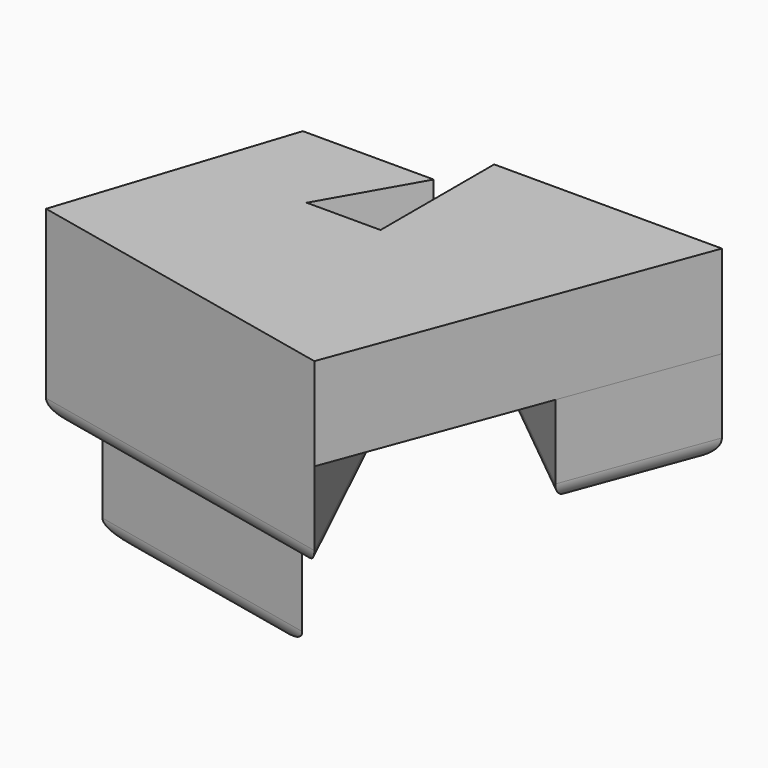
from build123d import *

# Parameters (mm, degrees)
F1_DEPTH = 25
F3_DEPTH = 25
F4_R     = 5
F5_R     = 5
F6_R     = 5
F8_DEPTH = 25
F9_R     = 5


with BuildPart() as f1:
    # F0 (on Top) → F1 (new body)
    with BuildSketch(Plane.XY):
        Polygon((0, 38.341291), (0, 0), (-19.922435, 0), (-5.638425, 24.997016), (-40.972557, 24.997016), (-61.082937, -36.461815), (26.500596, -55.444513), (61.458834, 38.341291), align=None)
    extrude(amount=F1_DEPTH)

    # F2 (on face) → F3 (join)
    with BuildSketch(Plane(origin=(0, 0, 0), x_dir=(1, 0, 0), z_dir=(0, 0, -1))):
        Polygon((26.500596, 55.444513), (-61.082937, 36.461815), (0, 0), align=None)
        Polygon((-5.638425, -24.997016), (-19.922435, 0), (-40.972557, -24.997016), align=None)
        Polygon((61.458834, -38.341291), (47.167289, 0), (0, -38.341291), align=None)
    extrude(amount=F3_DEPTH)

    # F4
    f4_edges = [f1.edges().sort_by_distance(p)[0] for p in [
        (-30.541468, -18.230908, -25),
        (13.250298, -27.722256, -25),
        (-17.291171, -45.953164, -25),
    ]]
    fillet(f4_edges, radius=F4_R)

    # F5
    f5_edges = [f1.edges().sort_by_distance(p)[0] for p in [
        (-23.305491, 24.997016, -25),
        (-30.447496, 12.498508, -25),
        (-12.78043, 12.498508, -25),
    ]]
    fillet(f5_edges, radius=F5_R)

    # F6
    f6_edges = [f1.edges().sort_by_distance(p)[0] for p in [
        (30.729417, 38.341291, -25),
        (54.313061, 19.170646, -25),
        (23.583645, 19.170646, -25),
    ]]
    fillet(f6_edges, radius=F6_R)

    # F7 (on face) → F8 (join)
    with BuildSketch(Plane(origin=(0, 0, -25), x_dir=(1, 0, 0), z_dir=(0, 0, -1))):
        Polygon((17.59047, 48.397257), (-47.638593, 34.259627), (-10.337112, 23.305491), align=None)
    extrude(amount=F8_DEPTH)

    # F9
    f9_edges = [f1.edges().sort_by_distance(p)[0] for p in [
        (-28.987853, -28.782559, -50),
        (-15.024061, -41.328442, -50),
        (3.626679, -35.851374, -50),
    ]]
    fillet(f9_edges, radius=F9_R)


solid = f1.part
